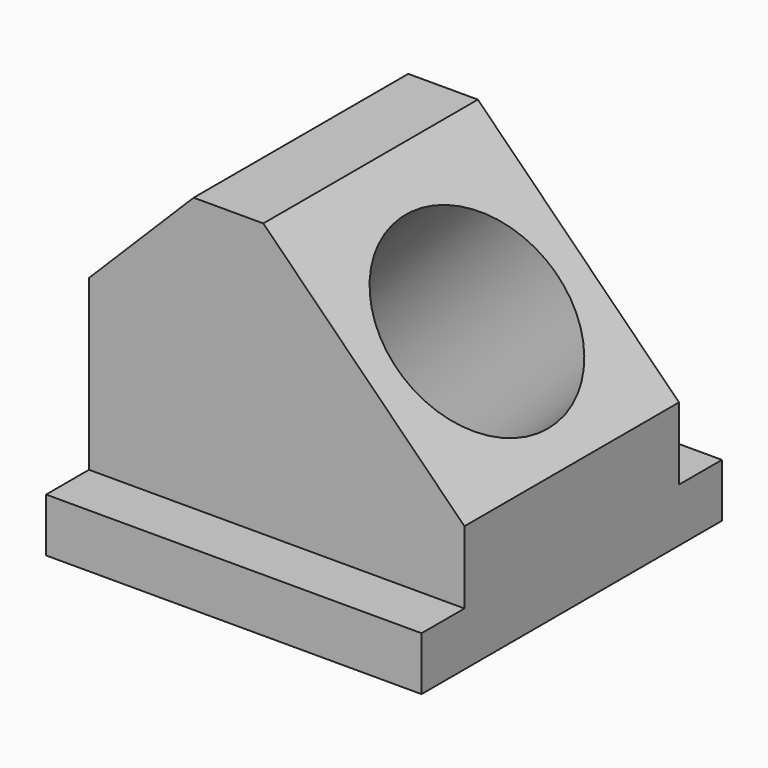
from build123d import *

# Parameters (mm, degrees)
F0_W     = 71.12
F0_H     = 71.12
F1_DEPTH = 10.16
F2_W     = 71.12
F2_H     = 50.8
F3_DEPTH = 51.816
F5_DEPTH = 71.12
F7_DEPTH = 71.12
F8_R     = 19.05
F9_DEPTH = 101.6


with BuildPart() as f1:
    # F0 (on Top) → F1 (new body)
    with BuildSketch(Plane.XY):
        with Locations((17.602327, -4.579058)):
            Rectangle(F0_W, F0_H)
    extrude(amount=F1_DEPTH)

    # F2 (on face) → F3 (join)
    with BuildSketch(Plane.XY.offset(10.16)):
        with Locations((17.602327, -4.579058)):
            Rectangle(F2_W, F2_H)
    extrude(amount=F3_DEPTH)

    # F4 (on face) → F5 (cut)
    with BuildSketch(Plane.XZ.offset(29.979058)):
        Polygon((-17.957673, 61.976), (-17.957673, 42.149723), (1.868605, 61.976), align=None)
    extrude(amount=-F5_DEPTH, mode=Mode.SUBTRACT)

    # F6 (on face) → F7 (cut)
    with BuildSketch(Plane.XZ.offset(29.979058)):
        Polygon((15.062327, 61.976), (53.162327, 23.876), (53.162327, 61.976), align=None)
    extrude(amount=-F7_DEPTH, mode=Mode.SUBTRACT)

    # F8 (on face) → F9 (cut)
    with BuildSketch(Plane(origin=(38.519164, 0, 38.519164), x_dir=(0.707107, 0, -0.707107), z_dir=(0.707107, 0, 0.707107))):
        with Locations((-4.691439, -4.579058)):
            Circle(F8_R)
    extrude(amount=-F9_DEPTH, mode=Mode.SUBTRACT)


solid = f1.part
